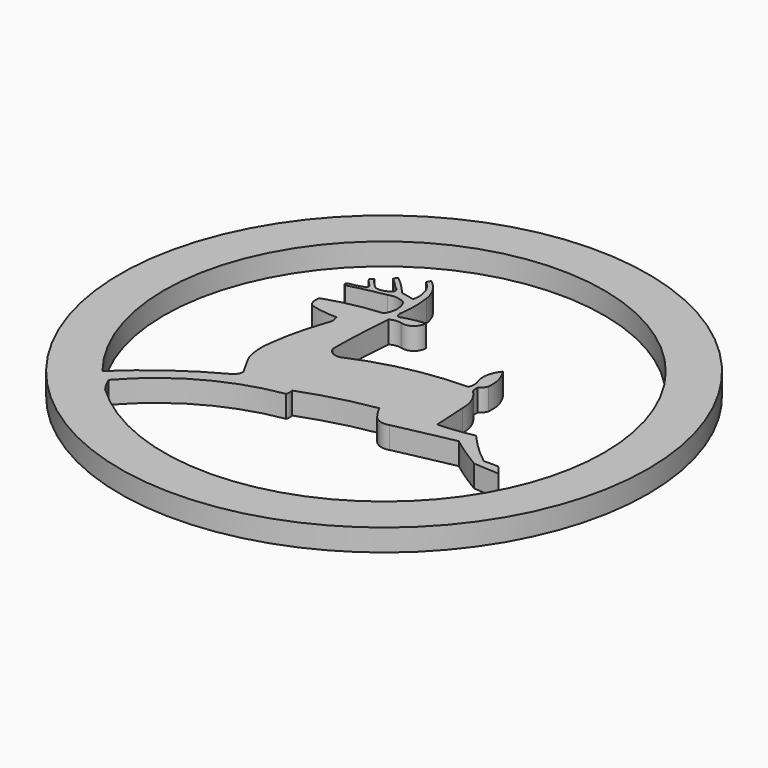
from build123d import *

# Parameters (mm, degrees)
F1_DEPTH = 3.175
F2_R     = 38.1
F3_DEPTH = 3.175


with BuildPart() as f1:
    # F0 (on Top) → F1 (new body)
    with BuildSketch(Plane.XY):
        with BuildLine():
            ThreePointArc((22.616535, 24.245614), (30.63387, 30.737001), (40.389795, 34.089267))
            ThreePointArc((40.389795, 34.089267), (40.477862, 34.61335), (40.389795, 35.137434))
            ThreePointArc((40.389795, 35.137434), (45.513697, 36.794109), (50.780315, 37.917353))
            ThreePointArc((50.780315, 37.917353), (51.300846, 36.975201), (51.919628, 36.094457))
            ThreePointArc((51.919628, 36.094457), (52.978288, 35.400243), (54.243822, 35.433657))
            ThreePointArc((54.243822, 35.433657), (58.513462, 36.346899), (62.788658, 37.233766))
            ThreePointArc((62.788658, 37.233766), (65.134653, 35.56889), (67.573771, 34.043696))
            ThreePointArc((67.573771, 34.043696), (69.419666, 33.94496), (71.265139, 33.838619))
            ThreePointArc((71.265139, 33.838619), (70.692959, 34.529744), (70.103042, 35.205793))
            Line((70.103042, 35.205793), (68.029493, 35.205793))
            ThreePointArc((68.029493, 35.205793), (65.637095, 37.238695), (63.472249, 39.512392))
            ThreePointArc((63.472249, 39.512392), (60.923729, 39.08034), (58.345344, 38.897164))
            ThreePointArc((58.345344, 38.897164), (58.224015, 41.347541), (58.071908, 43.7962))
            ThreePointArc((58.071908, 43.7962), (57.696674, 45.899805), (56.499656, 47.669861))
            ThreePointArc((56.499656, 47.669861), (56.290628, 48.196762), (56.294583, 48.763596))
            ThreePointArc((56.294583, 48.763596), (56.786119, 49.19758), (57.069313, 49.788978))
            ThreePointArc((57.069313, 49.788978), (56.916742, 51.783508), (56.066722, 53.59428))
            ThreePointArc((56.066722, 53.59428), (55.232372, 51.877319), (55.337559, 49.971268))
            ThreePointArc((55.337559, 49.971268), (55.549432, 49.105391), (55.337559, 48.239514))
            ThreePointArc((55.337559, 48.239514), (47.307111, 47.375759), (39.615061, 44.912722))
            ThreePointArc((39.615061, 44.912722), (38.358176, 45.074826), (37.609871, 46.097606))
            ThreePointArc((37.609871, 46.097606), (37.734106, 50.78522), (38.065597, 55.462748))
            ThreePointArc((38.065597, 55.462748), (38.812979, 55.753921), (39.615061, 55.758972))
            ThreePointArc((39.615061, 55.758972), (41.209501, 55.956812), (41.916471, 57.399578))
            ThreePointArc((41.916471, 57.399578), (40.221037, 57.129852), (38.566899, 56.67042))
            ThreePointArc((38.566899, 56.67042), (38.216858, 57.049557), (38.18446, 57.564557))
            ThreePointArc((38.18446, 57.564557), (38.357401, 59.871413), (38.18446, 62.178269))
            ThreePointArc((38.18446, 62.178269), (37.440835, 64.224424), (35.951093, 65.811999))
            Line((35.951093, 65.811999), (35.632402, 65.254405))
            ThreePointArc((35.632402, 65.254405), (36.600109, 64.217879), (37.113506, 62.896036))
            ThreePointArc((37.113506, 62.896036), (37.228471, 61.99454), (37.131365, 61.090946))
            ThreePointArc((37.131365, 61.090946), (36.163108, 61.296761), (35.194539, 61.501101))
            ThreePointArc((35.194539, 61.501101), (33.947714, 62.86964), (32.567654, 64.1037))
            Line((32.567654, 64.1037), (32.203075, 63.625194))
            ThreePointArc((32.203075, 63.625194), (33.07375, 62.810062), (33.907115, 61.956823))
            ThreePointArc((33.907115, 61.956823), (34.294902, 61.413983), (33.872936, 60.897265))
            ThreePointArc((33.872936, 60.897265), (33.029886, 60.548272), (32.118395, 60.589653))
            ThreePointArc((32.118395, 60.589653), (31.306391, 61.318256), (30.63513, 62.178269))
            Line((30.63513, 62.178269), (30.181566, 61.751749))
            ThreePointArc((30.181566, 61.751749), (30.678242, 61.14598), (31.229733, 60.589653))
            ThreePointArc((31.229733, 60.589653), (31.298619, 60.339004), (31.229733, 60.088355))
            ThreePointArc((31.229733, 60.088355), (30.143393, 59.730613), (29.019469, 59.518699))
            ThreePointArc((29.019469, 59.518699), (28.791384, 59.23387), (29.019469, 58.949042))
            ThreePointArc((29.019469, 58.949042), (31.594216, 59.570867), (34.191944, 60.088355))
            ThreePointArc((34.191944, 60.088355), (35.476697, 60.240495), (36.698427, 59.814919))
            ThreePointArc((36.698427, 59.814919), (37.22257, 58.068271), (36.675639, 56.328624))
            ThreePointArc((36.675639, 56.328624), (32.654946, 55.750122), (28.734472, 54.686859))
            ThreePointArc((28.734472, 54.686859), (28.6864, 53.675594), (29.144622, 52.77282))
            ThreePointArc((29.144622, 52.77282), (31.110795, 52.387996), (33.109426, 52.248735))
            ThreePointArc((33.109426, 52.248735), (33.318546, 51.371466), (33.109426, 50.494198))
            ThreePointArc((33.109426, 50.494198), (31.960889, 46.614509), (31.240953, 42.632949))
            ThreePointArc((31.240953, 42.632949), (31.141519, 40.543829), (31.514391, 38.485851))
            ThreePointArc((31.514391, 38.485851), (32.367516, 36.877537), (33.268929, 35.295781))
            ThreePointArc((33.268929, 35.295781), (33.110196, 34.634594), (32.676484, 34.110896))
            ThreePointArc((32.676484, 34.110896), (25.940865, 29.887543), (19.916199, 24.700185))
            Line((19.916199, 24.700185), (22.616535, 24.245614))
        make_face()
    extrude(amount=F1_DEPTH)

    # F2 (on face) → F3 (join)
    with BuildSketch(Plane.XY.offset(3.175)):
        with Locations((45.590669, 45.256092)):
            Circle(F2_R)
        with BuildLine():
            ThreePointArc((69.788132, 24.700185), (47.34104, 13.554378), (23.803331, 22.161192))
            ThreePointArc((23.803331, 22.161192), (22.563249, 23.397446), (21.393206, 24.700185))
            ThreePointArc((21.393206, 24.700185), (34.640941, 75.058206), (77.340669, 45.256092))
            ThreePointArc((77.340669, 45.256092), (75.392782, 34.306365), (69.788132, 24.700185))
        make_face(mode=Mode.SUBTRACT)
        with BuildLine():
            ThreePointArc((23.803331, 22.161192), (23.149346, 23.168907), (22.616535, 24.245614))
            Line((22.616535, 24.245614), (22.616535, 24.700185))
            Line((22.616535, 24.700185), (21.393206, 24.700185))
            ThreePointArc((21.393206, 24.700185), (22.563249, 23.397446), (23.803331, 22.161192))
        make_face()
    extrude(amount=-F3_DEPTH)


solid = f1.part
